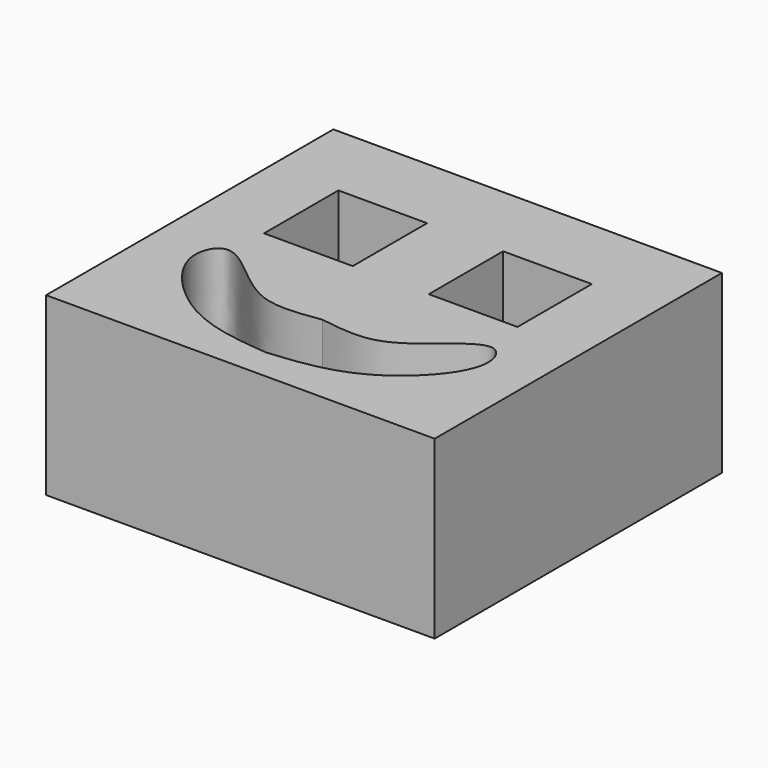
from build123d import *

# Parameters (mm, degrees)
F0_W     = 12.8015996888
F0_H     = 13.4111987427
F1_DEPTH = 25.4


with BuildPart() as f1:
    # F0 (on Top) → F1 (new body)
    with BuildSketch(Plane.XY):
        Polygon((28.041601181, 37.033200264), (0, 37.033200264), (-28.041601181, 37.033200264), (-28.041601181, -14.7828003392), (-5.181599874, -14.7828003392), (0, -14.7828003392), (5.181599874, -14.7828003392), (28.041601181, -14.7828003392), align=None)
        with BuildLine():
            add(Edge.make_bspline(
                [(0, 0), (-2.8414730659, -0.4255600832), (-8.5628533375, -1.2824364314), (-14.7772865817, 4.6478489144), (-19.8157965374, 7.8991892713), (-22.6815474134, 1.6109254073), (-12.6854419624, -9.021924638), (-4.223175406, -9.8150054085), (0, -10.2107999846)],
                knots=[0, 0, 0, 0, 0.1670009722, 0.3362608216, 0.4616930439, 0.5816395231, 0.7912131856, 1, 1, 1, 1], degree=3))
            add(Edge.make_bspline(
                [(0, 0), (2.8414730659, -0.4255600832), (8.5628533375, -1.2824364314), (14.7772865817, 4.6478489144), (19.8157965374, 7.8991892713), (22.6815474134, 1.6109254073), (12.6854419624, -9.021924638), (4.223175406, -9.8150054085), (0, -10.2107999846)],
                knots=[0, 0, 0, 0, 0.1670009722, 0.3362608216, 0.4616930439, 0.5816395231, 0.7912131856, 1, 1, 1, 1], degree=3))
        make_face(mode=Mode.SUBTRACT)
        with Locations((-11.8871997111, 19.0499997698)):
            Rectangle(F0_W, F0_H, mode=Mode.SUBTRACT)
        with Locations((11.8871997111, 19.0499997698)):
            Rectangle(F0_W, F0_H, mode=Mode.SUBTRACT)
    extrude(amount=F1_DEPTH)


solid = f1.part
